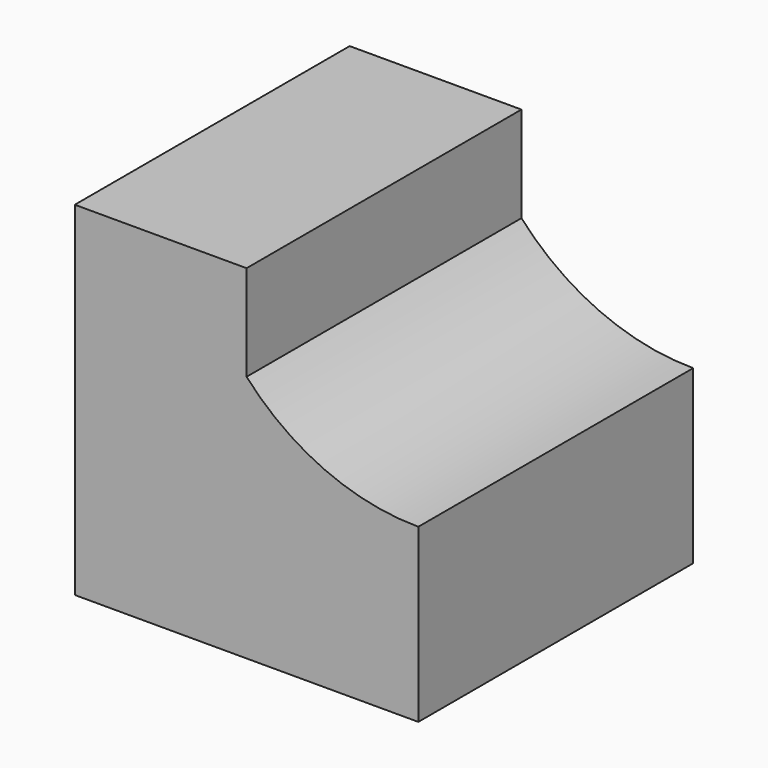
from build123d import *

# Parameters (mm, degrees)
F1_DEPTH = 50.8


with BuildPart() as f1:
    # F0 (on Front) → F1 (new body)
    with BuildSketch(Plane.XZ):
        Polygon((-30.170836, 0), (20.628821, 0), (20.623103, 25.4), (-4.770836, 25.4), (-4.770836, 36.663294), (-4.770836, 50.8), (-30.170836, 50.8), align=None)
        with BuildLine():
            Line((-4.770836, 25.4), (20.623103, 25.4))
            ThreePointArc((20.623103, 25.4), (6.733233, 28.342164), (-4.770836, 36.663294))
            Line((-4.770836, 36.663294), (-4.770836, 25.4))
        make_face()
    extrude(amount=F1_DEPTH)


solid = f1.part
